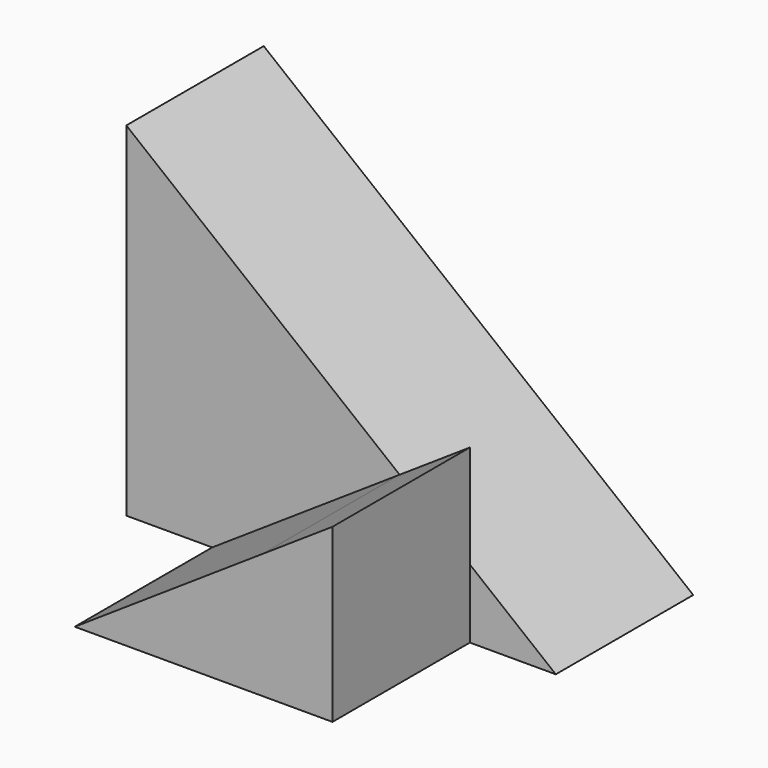
from build123d import *

# Parameters (mm, degrees)
F1_DEPTH = 20
F3_DEPTH = 20


with BuildPart() as f1:
    # F0 (on Front) → F1 (new body)
    with BuildSketch(Plane.XZ):
        Polygon((0, 40), (0, 0), (50, 0), align=None)
    extrude(amount=F1_DEPTH)

    # F2 (on face) → F3 (join)
    with BuildSketch(Plane.XZ.offset(20)):
        Polygon((31.8181818182, 14.5454545455), (10, 0), (40, 0), (40, 8), align=None)
        Polygon((40, 20), (31.8181818182, 14.5454545455), (40, 8), align=None)
    extrude(amount=F3_DEPTH)


solid = f1.part
